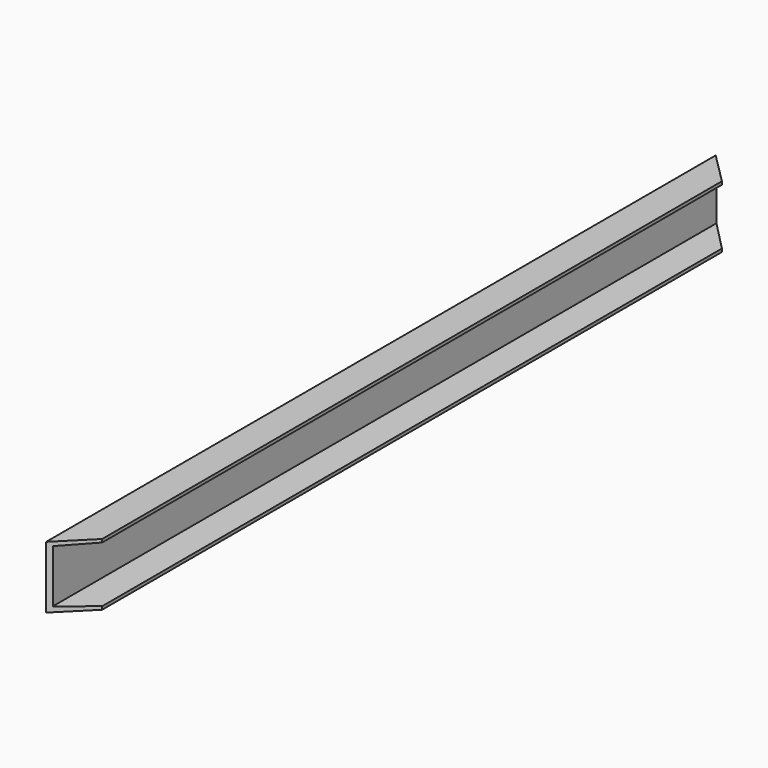
from build123d import *

# Parameters (mm, degrees)
F1_DEPTH  = 1343.214
F1_FACE_W = 50
F1_FACE_H = 1343.214
F3_DEPTH  = 110


with BuildPart() as f1:
    # F0 (on Front) → F1 (new body)
    with BuildSketch(Plane.XZ):
        Polygon((0, 100), (0, 0), (50, 0), (50, 5), (6, 8.463486), (6, 93.463486), (50, 95), (50, 100), align=None)
    extrude(amount=F1_DEPTH)

    # F2 (on Top) + F1_face (on face) → F3 (cut)
    with BuildSketch(Plane.XY):
        Polygon((87.158154, 52.255962), (0, 52.255962), (0, 0), (87.158154, -87.158154), align=None)
        Polygon((0, -1343.214), (0, -1353.214), (98.867149, -1353.214), (98.867149, -1244.346851), align=None)
    with BuildSketch(Plane(origin=(25, -671.607, 100), x_dir=(1, 0, 0), z_dir=(0, 0, 1))):
        Rectangle(F1_FACE_W, F1_FACE_H)
    extrude(amount=F3_DEPTH, mode=Mode.SUBTRACT)


solid = f1.part
